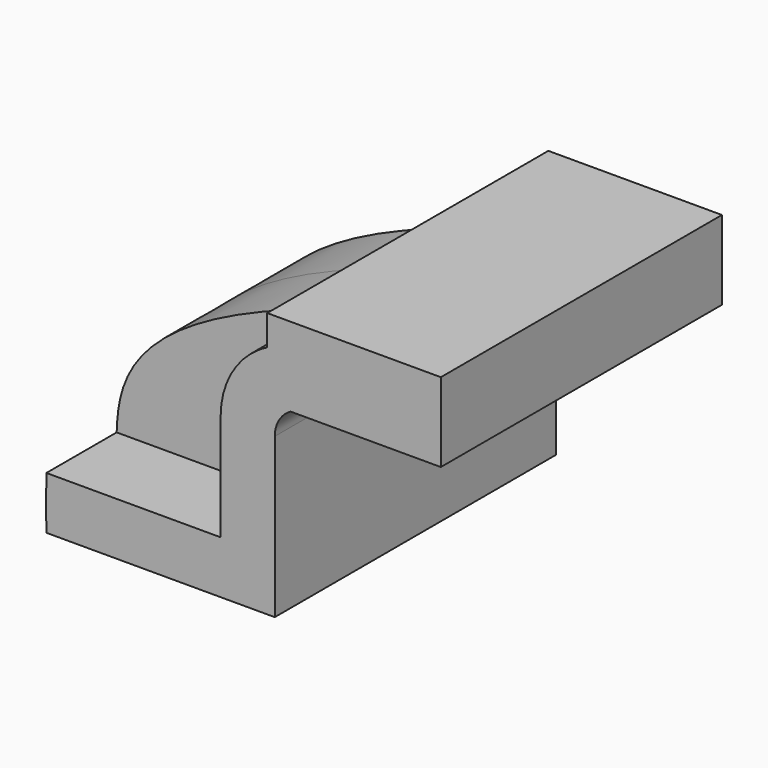
from build123d import *

# Parameters (mm, degrees)
F1_DEPTH = 63.5
F2_DEPTH = 31.75


with BuildPart() as f1:
    # F0 (on Front) → F1 (new body, symmetric)
    with BuildSketch(Plane.XZ):
        with BuildLine():
            Line((-41.275, -9.525), (-41.275, 9.525))
            add(Edge.make_bspline(
                [(-41.275, 9.525), (-41.5688923629, 1.7733725422), (-41.275, -4.9471189268), (-41.275, -9.525)],
                knots=[0.7120418159, 0.7120418159, 0.7120418159, 0.7120418159, 1, 1, 1, 1], degree=3))
        make_face()
        with BuildLine():
            ThreePointArc((52.4212995752, 59.16475485), (49.6265658999, 58.808703553), (47.0103791125, 57.7632966777))
            Line((47.0103791125, 57.7632966777), (86.397403326, 57.7632966777))
            Line((86.397403326, 57.7632966777), (86.397403326, 59.16475485))
            Line((86.397403326, 59.16475485), (52.4212995752, 59.16475485))
        make_face()
        with BuildLine():
            ThreePointArc((38.5510997703, 75.4113653713), (37.1063581812, 74.6306054375), (35.7054268763, 73.7737181564))
            add(Edge.make_bspline(
                [(38.5510997703, 74.6651904367), (37.5909721865, 74.3681040854), (36.6424617453, 74.0709424387), (35.7054268763, 73.7737181564)],
                knots=[0.0391473142, 0.0391473142, 0.0391473142, 0.0391473142, 0.0477336933, 0.0477336933, 0.0477336933, 0.0477336933], degree=3))
            Line((38.5510997703, 74.6651904367), (38.5510997703, 75.4113653713))
        make_face()
        Polygon((21.7170007527, 9.525), (-41.275, 9.525), (-41.275, -9.525), (41.275, -9.525), (41.275, 9.525), align=None)
        Polygon((101.2999585645, 86.3577260793), (86.397403326, 86.3577260793), (86.397403326, 78.7227540974), (86.397403326, 59.16475485), (86.397403326, 57.7632966777), (101.2999585645, 57.7632966777), align=None)
        with BuildLine():
            Line((38.5510997703, 86.3577260793), (38.5510997703, 75.4113653713))
            ThreePointArc((38.5510997703, 75.4113653713), (45.2912971572, 77.8834352966), (52.4212995752, 78.7227540974))
            Line((52.4212995752, 78.7227540974), (86.397403326, 78.7227540974))
            Line((86.397403326, 78.7227540974), (86.397403326, 86.3577260793))
            Line((86.397403326, 86.3577260793), (38.5510997703, 86.3577260793))
        make_face()
        with BuildLine():
            ThreePointArc((52.4212995752, 78.7227540974), (45.2912971572, 77.8834352966), (38.5510997703, 75.4113653713))
            Line((38.5510997703, 75.4113653713), (38.5510997703, 74.6651904367))
            add(Edge.make_bspline(
                [(52.4212995752, 78.7227540974), (47.5474740373, 77.3725978521), (42.9285463565, 76.0196767117), (38.5510997703, 74.6651904367)],
                knots=[0, 0, 0, 0, 0.0391473142, 0.0391473142, 0.0391473142, 0.0391473142], degree=3))
        make_face()
        with BuildLine():
            Line((21.7170007527, 48.0184552748), (21.7170007527, 9.525))
            Line((21.7170007527, 9.525), (41.275, 9.525))
            Line((41.275, 9.525), (41.275, 48.0184552748))
            ThreePointArc((41.275, 48.0184552748), (42.8152667136, 53.6721378696), (47.0103791125, 57.7632966777))
            Line((47.0103791125, 57.7632966777), (38.5510997703, 57.7632966777))
            Line((38.5510997703, 57.7632966777), (38.5510997703, 74.6651904367))
            add(Edge.make_bspline(
                [(38.5510997703, 74.6651904367), (37.5909721865, 74.3681040854), (36.6424617453, 74.0709424387), (35.7054268763, 73.7737181564)],
                knots=[0.0391473142, 0.0391473142, 0.0391473142, 0.0391473142, 0.0477336933, 0.0477336933, 0.0477336933, 0.0477336933], degree=3))
            ThreePointArc((35.7054268763, 73.7737181564), (25.4397955715, 62.6728883201), (21.7170007527, 48.0184552748))
        make_face()
        with BuildLine():
            add(Edge.make_bspline(
                [(52.4212995752, 78.7227540974), (47.5474740373, 77.3725978521), (42.9285463565, 76.0196767117), (38.5510997703, 74.6651904367)],
                knots=[0, 0, 0, 0, 0.0391473142, 0.0391473142, 0.0391473142, 0.0391473142], degree=3))
            Line((38.5510997703, 74.6651904367), (38.5510997703, 57.7632966777))
            Line((38.5510997703, 57.7632966777), (47.0103791125, 57.7632966777))
            ThreePointArc((47.0103791125, 57.7632966777), (49.6265658999, 58.808703553), (52.4212995752, 59.16475485))
            Line((52.4212995752, 59.16475485), (86.397403326, 59.16475485))
            Line((86.397403326, 59.16475485), (86.397403326, 78.7227540974))
            Line((86.397403326, 78.7227540974), (52.4212995752, 78.7227540974))
        make_face()
    extrude(amount=F1_DEPTH, both=True)

    # F0 (on Front) → F2 (join, symmetric)
    with BuildSketch(Plane.XZ):
        with BuildLine():
            add(Edge.make_bspline(
                [(35.7054268763, 73.7737181564), (-36.7907746981, 50.7781688963), (-40.5970019621, 27.4076974473), (-41.275, 9.525)],
                knots=[0.0477336933, 0.0477336933, 0.0477336933, 0.0477336933, 0.7120418159, 0.7120418159, 0.7120418159, 0.7120418159], degree=3))
            Line((-41.275, 9.525), (21.7170007527, 9.525))
            Line((21.7170007527, 9.525), (21.7170007527, 48.0184552748))
            ThreePointArc((21.7170007527, 48.0184552748), (25.4397955715, 62.6728883201), (35.7054268763, 73.7737181564))
        make_face()
        Polygon((21.7170007527, 9.525), (-41.275, 9.525), (-41.275, -9.525), (41.275, -9.525), (41.275, 9.525), align=None)
        with BuildLine():
            Line((-41.275, -9.525), (-41.275, 9.525))
            add(Edge.make_bspline(
                [(-41.275, 9.525), (-41.5688923629, 1.7733725422), (-41.275, -4.9471189268), (-41.275, -9.525)],
                knots=[0.7120418159, 0.7120418159, 0.7120418159, 0.7120418159, 1, 1, 1, 1], degree=3))
        make_face()
        with BuildLine():
            Line((21.7170007527, 48.0184552748), (21.7170007527, 9.525))
            Line((21.7170007527, 9.525), (41.275, 9.525))
            Line((41.275, 9.525), (41.275, 48.0184552748))
            ThreePointArc((41.275, 48.0184552748), (42.8152667136, 53.6721378696), (47.0103791125, 57.7632966777))
            Line((47.0103791125, 57.7632966777), (38.5510997703, 57.7632966777))
            Line((38.5510997703, 57.7632966777), (38.5510997703, 74.6651904367))
            add(Edge.make_bspline(
                [(38.5510997703, 74.6651904367), (37.5909721865, 74.3681040854), (36.6424617453, 74.0709424387), (35.7054268763, 73.7737181564)],
                knots=[0.0391473142, 0.0391473142, 0.0391473142, 0.0391473142, 0.0477336933, 0.0477336933, 0.0477336933, 0.0477336933], degree=3))
            ThreePointArc((35.7054268763, 73.7737181564), (25.4397955715, 62.6728883201), (21.7170007527, 48.0184552748))
        make_face()
        with BuildLine():
            ThreePointArc((38.5510997703, 75.4113653713), (37.1063581812, 74.6306054375), (35.7054268763, 73.7737181564))
            add(Edge.make_bspline(
                [(38.5510997703, 74.6651904367), (37.5909721865, 74.3681040854), (36.6424617453, 74.0709424387), (35.7054268763, 73.7737181564)],
                knots=[0.0391473142, 0.0391473142, 0.0391473142, 0.0391473142, 0.0477336933, 0.0477336933, 0.0477336933, 0.0477336933], degree=3))
            Line((38.5510997703, 74.6651904367), (38.5510997703, 75.4113653713))
        make_face()
        with BuildLine():
            ThreePointArc((52.4212995752, 78.7227540974), (45.2912971572, 77.8834352966), (38.5510997703, 75.4113653713))
            Line((38.5510997703, 75.4113653713), (38.5510997703, 74.6651904367))
            add(Edge.make_bspline(
                [(52.4212995752, 78.7227540974), (47.5474740373, 77.3725978521), (42.9285463565, 76.0196767117), (38.5510997703, 74.6651904367)],
                knots=[0, 0, 0, 0, 0.0391473142, 0.0391473142, 0.0391473142, 0.0391473142], degree=3))
        make_face()
        with BuildLine():
            Line((38.5510997703, 86.3577260793), (38.5510997703, 75.4113653713))
            ThreePointArc((38.5510997703, 75.4113653713), (45.2912971572, 77.8834352966), (52.4212995752, 78.7227540974))
            Line((52.4212995752, 78.7227540974), (86.397403326, 78.7227540974))
            Line((86.397403326, 78.7227540974), (86.397403326, 86.3577260793))
            Line((86.397403326, 86.3577260793), (38.5510997703, 86.3577260793))
        make_face()
        with BuildLine():
            add(Edge.make_bspline(
                [(52.4212995752, 78.7227540974), (47.5474740373, 77.3725978521), (42.9285463565, 76.0196767117), (38.5510997703, 74.6651904367)],
                knots=[0, 0, 0, 0, 0.0391473142, 0.0391473142, 0.0391473142, 0.0391473142], degree=3))
            Line((38.5510997703, 74.6651904367), (38.5510997703, 57.7632966777))
            Line((38.5510997703, 57.7632966777), (47.0103791125, 57.7632966777))
            ThreePointArc((47.0103791125, 57.7632966777), (49.6265658999, 58.808703553), (52.4212995752, 59.16475485))
            Line((52.4212995752, 59.16475485), (86.397403326, 59.16475485))
            Line((86.397403326, 59.16475485), (86.397403326, 78.7227540974))
            Line((86.397403326, 78.7227540974), (52.4212995752, 78.7227540974))
        make_face()
        with BuildLine():
            ThreePointArc((52.4212995752, 59.16475485), (49.6265658999, 58.808703553), (47.0103791125, 57.7632966777))
            Line((47.0103791125, 57.7632966777), (86.397403326, 57.7632966777))
            Line((86.397403326, 57.7632966777), (86.397403326, 59.16475485))
            Line((86.397403326, 59.16475485), (52.4212995752, 59.16475485))
        make_face()
        Polygon((101.2999585645, 86.3577260793), (86.397403326, 86.3577260793), (86.397403326, 78.7227540974), (86.397403326, 59.16475485), (86.397403326, 57.7632966777), (101.2999585645, 57.7632966777), align=None)
    extrude(amount=F2_DEPTH, both=True)


solid = f1.part
